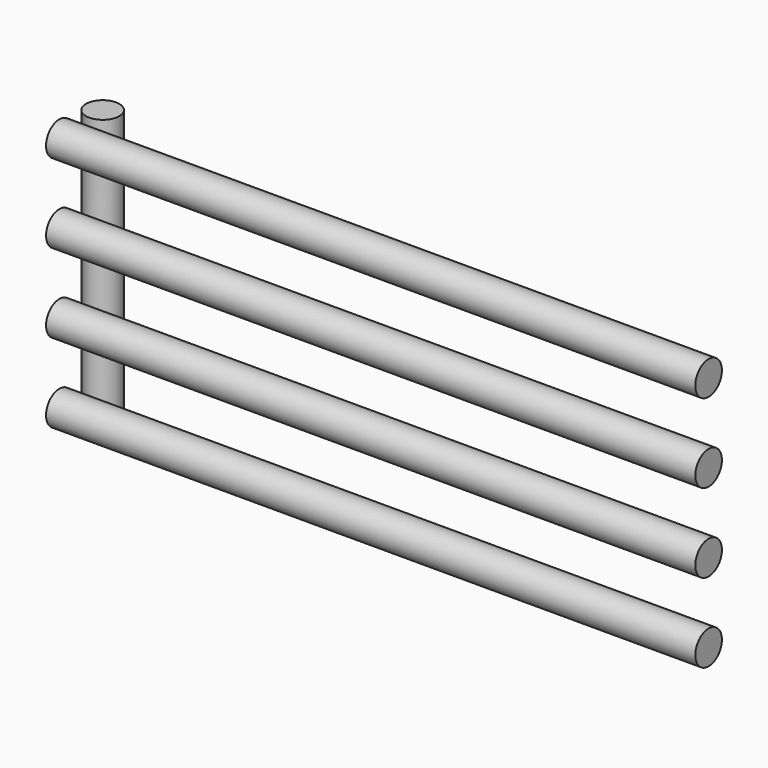
from build123d import *

# Parameters (mm, degrees)
F0_R          = 40
F1_DEPTH      = 1560
F2_R          = 40
F3_DEPTH      = 610
F3_DEPTH_BACK = 40


with BuildPart() as f1:
    # F0 (on Right) → F1 (new body)
    with BuildSketch(Plane.YZ):
        Circle(F0_R)
        with Locations((0, 570)):
            Circle(F0_R)
        with Locations((0, 190)):
            Circle(F0_R)
        with Locations((0, 380)):
            Circle(F0_R)
    extrude(amount=F1_DEPTH)


with BuildPart() as f3:
    # F2 (on Top) → F3 (new body, two sides)
    with BuildSketch(Plane.XY) as f3_sk:
        with Locations((40, 80)):
            Circle(F2_R)
    extrude(amount=F3_DEPTH)
    extrude(f3_sk.sketch, amount=-F3_DEPTH_BACK)


solid = Compound([f1.part, f3.part])
